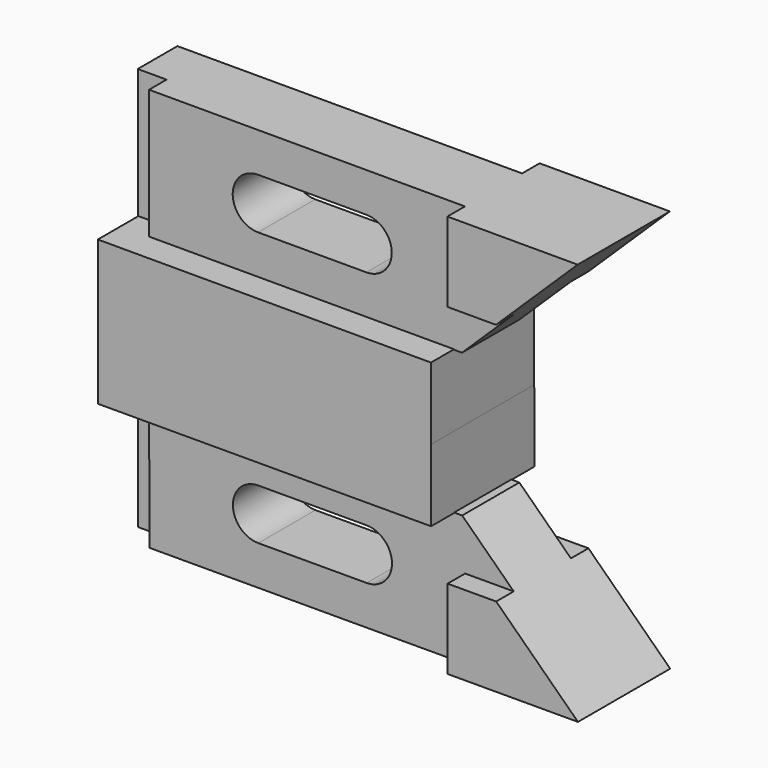
from build123d import *

# Parameters (mm, degrees)
F1_DEPTH  = 14.224
F2_W      = 104.648
F2_H      = 28.575
F3_DEPTH  = 7.874
F5_DEPTH  = 4.826
F6_W      = 28.702
F6_H      = 17.526
F7_DEPTH  = 12.7
F9_DEPTH  = 12.7
F11_DEPTH = 25.4


with BuildPart() as f1:
    # F0 (on Front) → F1 (new body, symmetric)
    with BuildSketch(Plane.XZ):
        Polygon((32.3041829584, 0.0577278724), (32.3041829584, 15.9327278724), (-41.1018170416, 15.9327278724), (-41.1018170416, 0), align=None)
    extrude(amount=F1_DEPTH, both=True)

    # F2 (on Front) → F3 (join, symmetric)
    with BuildSketch(Plane.XZ):
        with Locations((11.0836382955, 30.133637134)):
            Rectangle(F2_W, F2_H)
    extrude(amount=F3_DEPTH, both=True)

    # F4 (on face) → F5 (cut)
    with BuildSketch(Plane.XZ.offset(7.874)):
        Polygon((-34.8903617045, 44.421137134), (-41.2403617045, 44.421137134), (-41.2403617045, 15.846137134), (-41.1018170416, 15.846137134), (-41.1018170416, 15.9327278724), (-34.8903617045, 15.9327278724), align=None)
    extrude(amount=-F5_DEPTH, mode=Mode.SUBTRACT)

    # F6 (on Front) → F7 (join, symmetric)
    with BuildSketch(Plane.XZ):
        with Locations((49.0566382955, 35.658137134)):
            Rectangle(F6_W, F6_H)
    extrude(amount=F7_DEPTH, both=True)

    # F8 (on Front) → F9 (cut, symmetric)
    with BuildSketch(Plane.XZ):
        Polygon((63.4076382955, 44.421137134), (34.0538099408, 15.824187547), (63.4076382955, 15.846137134), align=None)
    extrude(amount=F9_DEPTH, both=True, mode=Mode.SUBTRACT)

    # F10 (on face) → F11 (cut)
    with BuildSketch(Plane.XZ.offset(7.874)):
        with BuildLine():
            ThreePointArc((13.0001829584, 35.7447278724), (7.4121829584, 30.1567278724), (13.0001829584, 24.5687278724))
            ThreePointArc((13.0001829584, 24.5687278724), (16.9514956516, 26.2054151791), (18.5881829584, 30.1567278724))
            ThreePointArc((18.5881829584, 30.1567278724), (16.9514956516, 34.1080405657), (13.0001829584, 35.7447278724))
        make_face()
        with BuildLine():
            ThreePointArc((-10.8758170416, 35.7447278724), (-16.4638170416, 30.1567278724), (-10.8758170416, 24.5687278724))
            ThreePointArc((-10.8758170416, 24.5687278724), (-6.9245043484, 26.2054151791), (-5.2878170416, 30.1567278724))
            ThreePointArc((-5.2878170416, 30.1567278724), (-6.9245043484, 34.1080405657), (-10.8758170416, 35.7447278724))
        make_face()
        with BuildLine():
            ThreePointArc((-5.2878170416, 30.1567278724), (-6.9245043484, 26.2054151791), (-10.8758170416, 24.5687278724))
            Line((-10.8758170416, 24.5687278724), (13.0001829584, 24.5687278724))
            ThreePointArc((13.0001829584, 24.5687278724), (7.4121829584, 30.1567278724), (13.0001829584, 35.7447278724))
            Line((13.0001829584, 35.7447278724), (-10.8758170416, 35.7447278724))
            ThreePointArc((-10.8758170416, 35.7447278724), (-6.9245043484, 34.1080405657), (-5.2878170416, 30.1567278724))
        make_face()
    extrude(amount=-F11_DEPTH, mode=Mode.SUBTRACT)

    # F12: F1 across face


with BuildPart() as f1_1:
    add(f1.part)
    add(f1.part.mirror(Plane(origin=(-4.3988170416, 0, 0.0288639362), x_dir=(1, 0, 0), z_dir=(0.0007864187, 0, -0.9999996908))))


solid = f1_1.part
